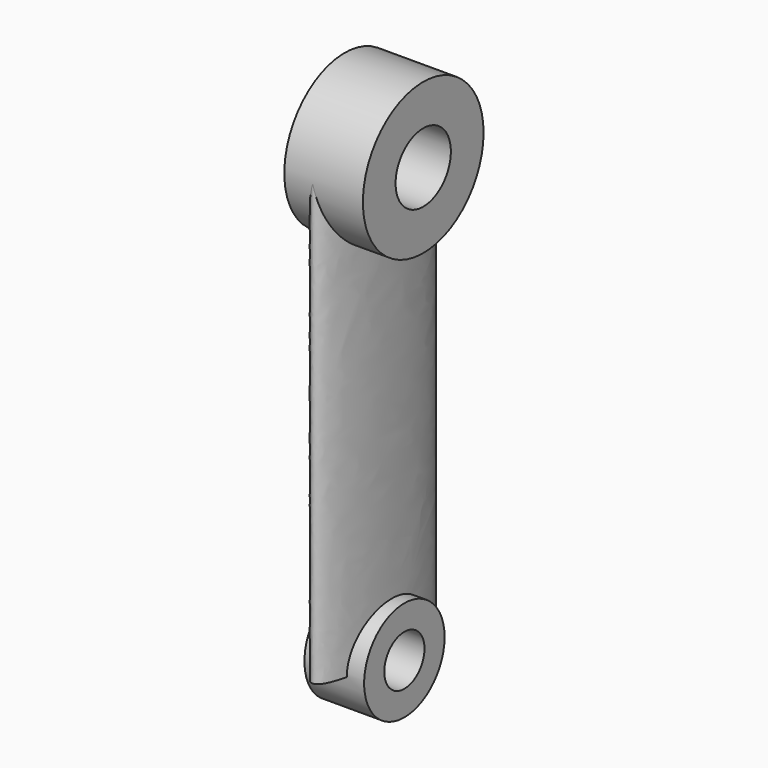
from build123d import *

# Parameters (mm, degrees)
F0_R     = 8
F0_R_2   = 16
F1_DEPTH = 19
F0_R_3   = 11
F0_R_4   = 24
F2_DEPTH = 25
F7_DEPTH = 25.001


with BuildPart() as f1:
    # F0 (on Right) → F1 (new body)
    with BuildSketch(Plane.YZ):
        Circle(F0_R)
        Circle(F0_R_2)
        Circle(F0_R, mode=Mode.SUBTRACT)
    extrude(amount=F1_DEPTH)



with BuildPart() as f2:
    # F0 (on Right) → F2 (new body)
    with BuildSketch(Plane.YZ):
        with Locations((0, 140)):
            Circle(F0_R_3)
        with Locations((0, 140)):
            Circle(F0_R_4)
        with Locations((0, 140)):
            Circle(F0_R_3, mode=Mode.SUBTRACT)
    extrude(amount=F2_DEPTH)


with BuildPart() as f1_1:
    add(f1.part)

    add(f2.part)  # F6 merges F2
    # F5 (on plane+point) → F6 section 0
    with BuildSketch(Plane.XY.offset(140)):
        with BuildLine():
            add(Edge.make_bspline(
                [(9, 24), (-1.392305, 24), (3.803848, -12), (9, -48), (14.196152, -12), (19.392305, 24), (9, 24)],
                knots=[0, 0, 0, 2.094395, 2.094395, 4.18879, 4.18879, 6.283185, 6.283185, 6.283185], degree=2, weights=[1, 0.5, 1, 0.5, 1, 0.5, 1]))
        make_face()
    # F3 (on Top) → F6 section 1
    with BuildSketch(Plane.XY):
        with BuildLine():
            add(Edge.make_bspline(
                [(9, 24), (-1.392305, 24), (3.803848, -12), (9, -48), (14.196152, -12), (19.392305, 24), (9, 24)],
                knots=[0, 0, 0, 2.094395, 2.094395, 4.18879, 4.18879, 6.283185, 6.283185, 6.283185], degree=2, weights=[1, 0.5, 1, 0.5, 1, 0.5, 1]))
        make_face()
    loft()

    # F0 (on Right) → F7 (cut, through all)
    with BuildSketch(Plane.YZ):
        with Locations((0, 140)):
            Circle(F0_R_3)
        Circle(F0_R)
    extrude(amount=F7_DEPTH, mode=Mode.SUBTRACT)


solid = f1_1.part
